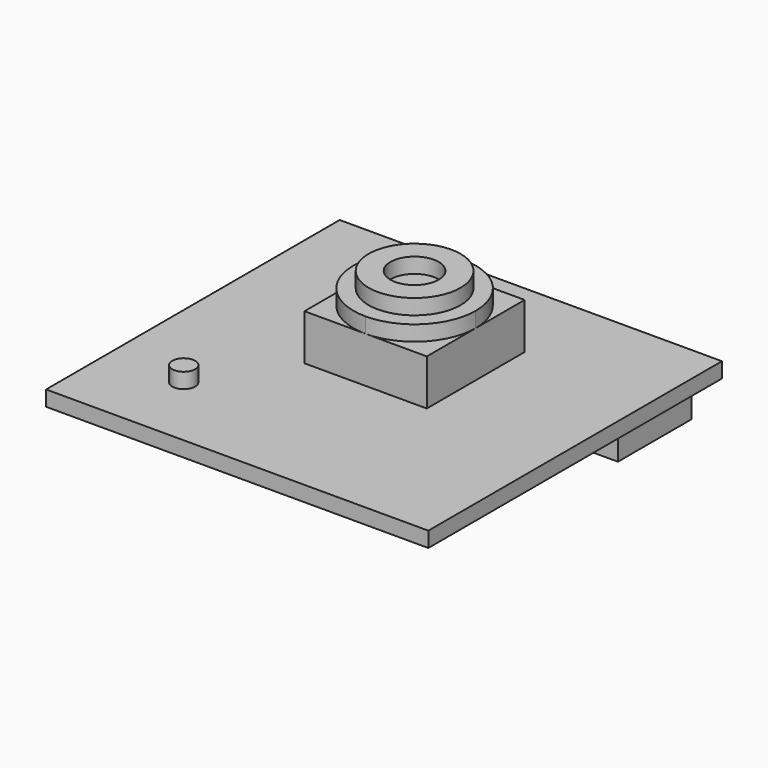
from build123d import *

# Parameters (mm, degrees)
F0_W      = 25
F0_H      = 24
F1_DEPTH  = 1
F2_W      = 8
F2_H      = 8
F3_DEPTH  = 4
F5_DEPTH  = 1
F6_R      = 3.0075631212
F6_R_2    = 1.5783263093
F7_DEPTH  = 1
F8_W      = 21
F8_H      = 6
F9_DEPTH  = 3
F10_W     = 17
F10_H     = 0.5
F11_DEPTH = 3
F2_R      = 0.75
F12_DEPTH = 1


with BuildPart() as f1:
    # F0 (on Top) → F1 (new body)
    with BuildSketch(Plane.XY):
        Rectangle(F0_W, F0_H)
    extrude(amount=F1_DEPTH)

    # F2 (on face) → F3 (join)
    with BuildSketch(Plane.XY.offset(1)):
        with Locations((0, 2.5)):
            Rectangle(F2_W, F2_H)
    extrude(amount=F3_DEPTH)

    # F4 (on face) → F5 (cut)
    with BuildSketch(Plane.XY.offset(5)):
        with BuildLine():
            ThreePointArc((0, 6.5), (2.8284271247, 5.3284271247), (4, 2.5))
            Line((4, 2.5), (4, 6.5))
            Line((4, 6.5), (0, 6.5))
        make_face()
        with BuildLine():
            ThreePointArc((-4, 2.5), (-2.8284271247, 5.3284271247), (0, 6.5))
            Line((0, 6.5), (-4, 6.5))
            Line((-4, 6.5), (-4, 2.5))
        make_face()
        with BuildLine():
            Line((-4, -1.5), (0, -1.5))
            ThreePointArc((0, -1.5), (-2.8284271247, -0.3284271247), (-4, 2.5))
            Line((-4, 2.5), (-4, -1.5))
        make_face()
        with BuildLine():
            Line((4, -1.5), (4, 2.5))
            ThreePointArc((4, 2.5), (2.8284271247, -0.3284271247), (0, -1.5))
            Line((0, -1.5), (4, -1.5))
        make_face()
    extrude(amount=-F5_DEPTH, mode=Mode.SUBTRACT)

    # F6 (on face) → F7 (join)
    with BuildSketch(Plane.XY.offset(5)):
        with Locations((0, 2.5)):
            Circle(F6_R)
        with Locations((0, 2.5)):
            Circle(F6_R_2, mode=Mode.SUBTRACT)
    extrude(amount=F7_DEPTH)

    # F8 (on face) → F9 (join)
    with BuildSketch(Plane(origin=(0, 0, 0), x_dir=(1, 0, 0), z_dir=(0, 0, -1))):
        with Locations((0, -9)):
            Rectangle(F8_W, F8_H)
    extrude(amount=F9_DEPTH)

    # F10 (on face) → F11 (join)
    with BuildSketch(Plane(origin=(0, 12, 0), x_dir=(-1, 0, 0), z_dir=(0, 1, 0))):
        with Locations((0, -1.25)):
            Rectangle(F10_W, F10_H)
    extrude(amount=F11_DEPTH)

    # F2 (on face) → F12 (join)
    with BuildSketch(Plane.XY.offset(1)):
        with Locations((-7.5, -7)):
            Circle(F2_R)
    extrude(amount=F12_DEPTH)


solid = f1.part
